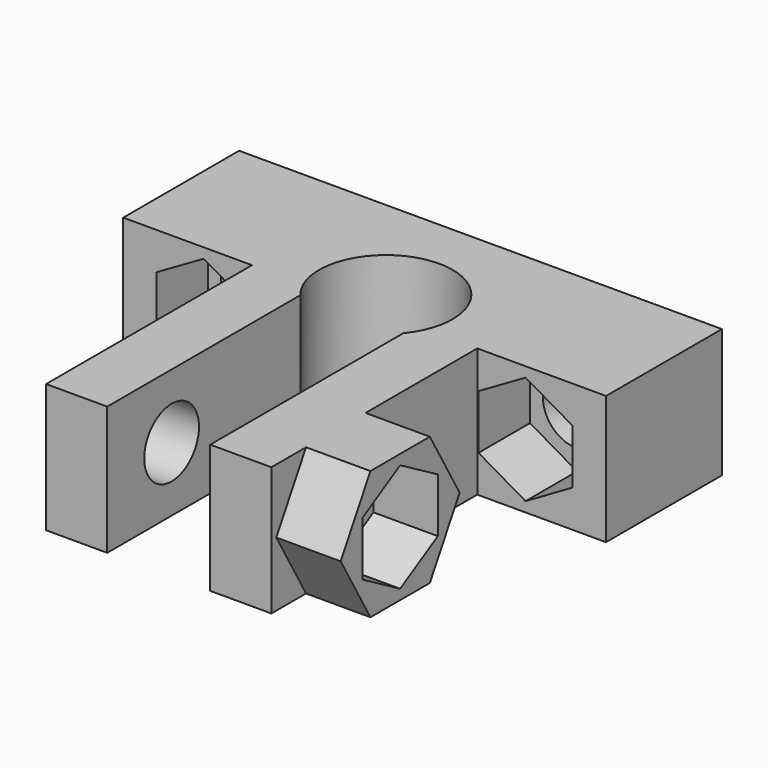
from build123d import *

# Parameters (mm, degrees)
F1_DEPTH = 4
F2_R     = 2.125
F3_DEPTH = 5.001
F4_W     = 8
F4_H     = 8
F5_DEPTH = 4
F6_R     = 2.125
F7_DEPTH = 22.001
F9_DEPTH = 4


with BuildPart() as f1:
    # F0 (on Top) → F1 (new body, symmetric)
    with BuildSketch(Plane.XY):
        with BuildLine():
            ThreePointArc((-3.2, -2.642442), (0, 4.15), (3.2, -2.642442))
            Line((3.2, -2.642442), (3.2, -17.642442))
            Line((3.2, -17.642442), (7, -17.642442))
            Line((7, -17.642442), (7, 2.35))
            Line((7, 2.35), (15, 2.35))
            Line((15, 2.35), (15, 7.35))
            Line((15, 7.35), (-15, 7.35))
            Line((-15, 7.35), (-15, 2.35))
            Line((-15, 2.35), (-7, 2.35))
            Line((-7, 2.35), (-7, -17.642442))
            Line((-7, -17.642442), (-3.2, -17.642442))
            Line((-3.2, -17.642442), (-3.2, -2.642442))
        make_face()
    extrude(amount=F1_DEPTH, both=True)

    # F2 (on face) → F3 (cut, through all)
    with BuildSketch(Plane.XZ.offset(-2.35)):
        with Locations((10, 0)):
            Circle(F2_R)
        with Locations((-10, 0)):
            Circle(F2_R)
    extrude(amount=-F3_DEPTH, mode=Mode.SUBTRACT)

    # F4 (on face) → F5 (join)
    with BuildSketch(Plane.XZ.offset(-2.35)):
        with Locations((11, 0)):
            Rectangle(F4_W, F4_H)
        Polygon((10, 3.377499), (12.925, 1.68875), (12.925, -1.68875), (10, -3.377499), (7.075, -1.68875), (7.075, 1.68875), align=None, mode=Mode.SUBTRACT)
        with Locations((-11, 0)):
            Rectangle(F4_W, F4_H)
        Polygon((-7.075, 1.68875), (-7.075, -1.68875), (-10, -3.377499), (-12.925, -1.68875), (-12.925, 1.68875), (-10, 3.377499), align=None, mode=Mode.SUBTRACT)
    extrude(amount=F5_DEPTH)

    # F6 (on face) → F7 (cut, through all)
    with BuildSketch(Plane.YZ.offset(7)):
        with Locations((-12.642442, 0)):
            Circle(F6_R)
    extrude(amount=-F7_DEPTH, mode=Mode.SUBTRACT)

    # F8 (on face) → F9 (join)
    with BuildSketch(Plane.YZ.offset(7)):
        Polygon((-14.951843, -4), (-10.333041, -4), (-8.02364, 0), (-10.333041, 4), (-14.951843, 4), (-17.261244, 0), align=None)
        Polygon((-12.642442, 3.377499), (-9.717442, 1.68875), (-9.717442, -1.68875), (-12.642442, -3.377499), (-15.567442, -1.68875), (-15.567442, 1.68875), align=None, mode=Mode.SUBTRACT)
    extrude(amount=F9_DEPTH)


solid = f1.part
